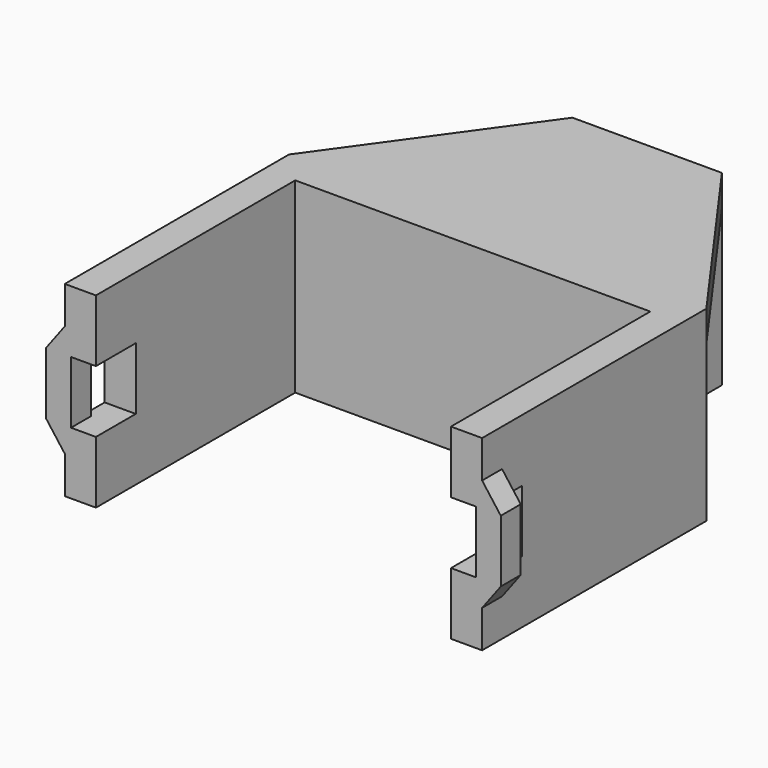
from build123d import *

# Parameters (mm, degrees)
PAD_DEPTH       = 30
SKETCH001_W     = 30
SKETCH001_H     = 25
SKETCH001_W_2   = 8
SKETCH001_H_2   = 10
POCKET_DEPTH    = 67.001
SKETCH002_W     = 24
SKETCH002_H     = 5
PAD001_DEPTH    = 25
SKETCH003_R     = 2
POCKET001_DEPTH = 5
PAD002_DEPTH    = 4


with BuildPart() as part:
    # Sketch → Pad (new body)
    with BuildSketch(Plane.XY):
        Polygon((-28.5, 0), (-28.5, 40), (28.5, 40), (28.5, 0), (33.5, 0), (33.5, 45), (12, 75), (-12, 75), (-33.5, 45), (-33.5, 0), align=None)
    extrude(amount=PAD_DEPTH)

    # Sketch001 (on Face7 of Pad) → Pocket (cut, through all)
    with BuildSketch(Plane.YZ.offset(33.5)):
        with Locations((60, 12.5)):
            Rectangle(SKETCH001_W, SKETCH001_H)
        with Locations((4, 15)):
            Rectangle(SKETCH001_W_2, SKETCH001_H_2)
    extrude(amount=-POCKET_DEPTH, mode=Mode.SUBTRACT)

    # Sketch002 (on Face19 of Pocket) → Pad001 (join)
    with BuildSketch(Plane(origin=(0, 0, 25), x_dir=(1, 0, 0), z_dir=(0, 0, -1))):
        with Locations((0, -72.5)):
            Rectangle(SKETCH002_W, SKETCH002_H)
    extrude(amount=PAD001_DEPTH)

    # Sketch003 (on Face23 of Pad001) → Pocket001 (cut)
    with BuildSketch(Plane(origin=(0, 75, 0), x_dir=(-1, 0, 0), z_dir=(0, 1, 0))):
        with Locations((0, 10)):
            Circle(SKETCH003_R)
    extrude(amount=-POCKET001_DEPTH, mode=Mode.SUBTRACT)

    # Sketch004 (on Face12 of Pocket001) → Pad002 (join)
    with BuildSketch(Plane.XZ):
        Polygon((32.5, 20), (33.5, 24), (36.5, 20), (36.5, 10), (33.5, 6), (32.5, 10), align=None)
        Polygon((-32.5, 20), (-33.5, 24), (-36.5, 20), (-36.5, 10), (-33.5, 6), (-32.5, 10), align=None)
    extrude(amount=-PAD002_DEPTH)


solid = part.part
